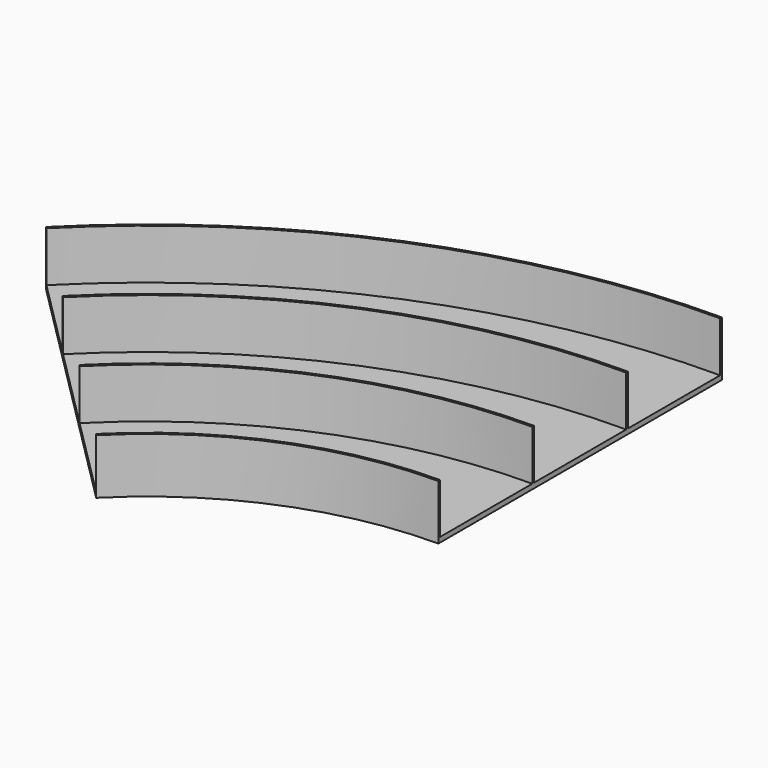
from build123d import *


with BuildPart() as f2:
    # F2: sweep along a path in F0
    with BuildLine(Plane.XY) as f2_path:
        ThreePointArc((0, 363), (-138.914086, 335.36827), (-256.679762, 256.679762))
    # F1 (on Right) → F2 (sweep)
    with BuildSketch(Plane.YZ):
        Polygon((363, 50), (363, -5), (717, -5), (717, 50), (714.75, 50), (714.75, 0), (599.75, 0), (599.75, 50), (597.5, 50), (597.5, 0), (482.5, 0), (482.5, 50), (480.25, 50), (480.25, 0), (365.25, 0), (365.25, 50), align=None)
    sweep(path=f2_path.line)


solid = f2.part
